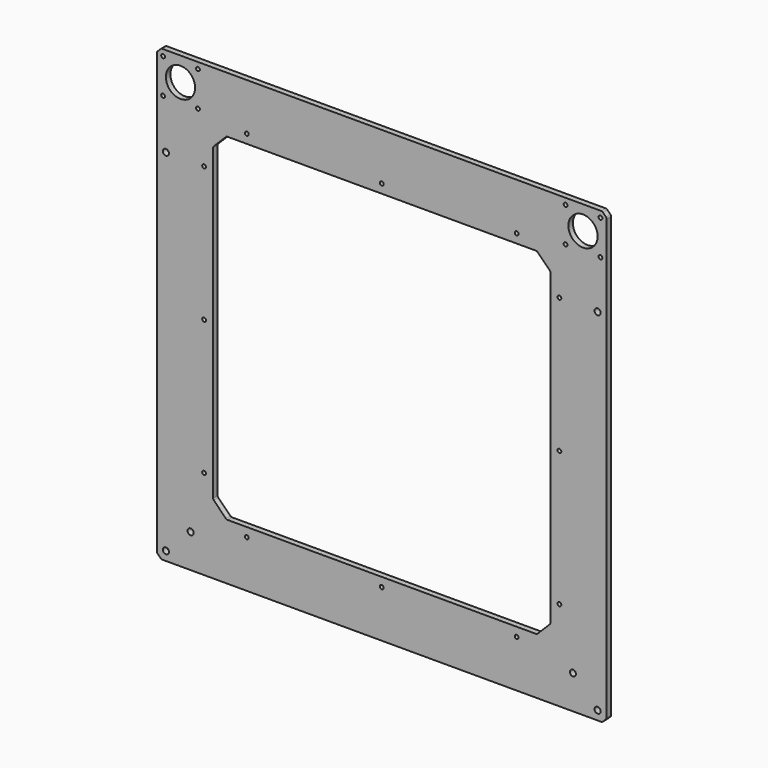
from build123d import *

# Parameters (mm, degrees)
SKETCH001_W        = 400
SKETCH001_H        = 400
PAD_DEPTH          = 5
CHAMFER_SIZE       = 4
FILLET_R           = 2
SKETCH002_W        = 300
SKETCH002_H        = 300
POCKET_DEPTH       = 5.001
CHAMFER001_SIZE    = 12
FILLET001_R        = 2
SKETCH003_R        = 13
SKETCH003_R_2      = 1.7
POCKET001_DEPTH    = 1136.416043
SKETCH008_R        = 2.7
POCKET003_DEPTH    = 5.001
SKETCH009_R        = 1.7
POCKET004_DEPTH    = 1136.416043
POLARPATTERN_COUNT = 4


with BuildPart() as part:
    # Sketch001 → Pad (new body)
    with BuildSketch(Plane.XZ):
        Rectangle(SKETCH001_W, SKETCH001_H)
    extrude(amount=-PAD_DEPTH)

    # Chamfer
    chamfer_edges = [part.edges().sort_by_distance(p)[0] for p in [
        (-200, 2.5, 200),
        (200, 2.5, 200),
        (200, 2.5, -200),
        (-200, 2.5, -200),
    ]]
    chamfer(chamfer_edges, length=CHAMFER_SIZE)

    # Fillet
    fillet_edges = [part.edges().sort_by_distance(p)[0] for p in [
        (196, 2.5, 200),
        (200, 2.5, 196),
        (200, 2.5, -196),
        (196, 2.5, -200),
        (-200, 2.5, -196),
        (-196, 2.5, -200),
        (-200, 2.5, 196),
        (-196, 2.5, 200),
    ]]
    fillet(fillet_edges, radius=FILLET_R)

    # Sketch002 → Pocket (cut, through all)
    with BuildSketch(Plane.XZ):
        Rectangle(SKETCH002_W, SKETCH002_H)
    extrude(amount=-POCKET_DEPTH, mode=Mode.SUBTRACT)

    # Chamfer001
    chamfer001_edges = [part.edges().sort_by_distance(p)[0] for p in [
        (-150, 2.5, -150),
        (150, 2.5, -150),
        (150, 2.5, 150),
        (-150, 2.5, 150),
    ]]
    chamfer(chamfer001_edges, length=CHAMFER001_SIZE)

    # Fillet001
    fillet001_edges = [part.edges().sort_by_distance(p)[0] for p in [
        (-138, 2.5, 150),
        (-150, 2.5, 138),
        (-150, 2.5, -138),
        (-138, 2.5, -150),
        (150, 2.5, 138),
        (138, 2.5, 150),
        (150, 2.5, -138),
        (138, 2.5, -150),
    ]]
    fillet(fillet001_edges, radius=FILLET001_R)

    # Sketch003 → Pocket001 (cut, through all)
    with BuildSketch(Plane.XZ):
        with Locations((-179, 179)):
            Circle(SKETCH003_R)
        with Locations((-163.5, 194.5)):
            Circle(SKETCH003_R_2)
        with Locations((-194.5, 194.5)):
            Circle(SKETCH003_R_2)
        with Locations((-194.5, 163.5)):
            Circle(SKETCH003_R_2)
        with Locations((-163.5, 163.5)):
            Circle(SKETCH003_R_2)
    pocket001 = extrude(amount=-POCKET001_DEPTH, mode=Mode.SUBTRACT)

    # Mirrored: Pocket001 across Sketch003 V_Axis
    add(pocket001.mirror(Plane(origin=(0, 0, 0), x_dir=(0, -1, 0), z_dir=(1, 0, 0))), mode=Mode.SUBTRACT)

    # Sketch008 → Pocket003 (cut, through all)
    with BuildSketch(Plane.XZ):
        with Locations((-192, 120)):
            Circle(SKETCH008_R)
        with Locations((-192, -192)):
            Circle(SKETCH008_R)
        with Locations((192, -192)):
            Circle(SKETCH008_R)
        with Locations((192, 120)):
            Circle(SKETCH008_R)
        with Locations((170, -170)):
            Circle(SKETCH008_R)
        with Locations((-170, -170)):
            Circle(SKETCH008_R)
    extrude(amount=-POCKET003_DEPTH, mode=Mode.SUBTRACT)

    # Sketch009 → Pocket004 (cut, through all)
    with BuildSketch(Plane.XZ):
        with Locations((-120, 158)):
            Circle(SKETCH009_R)
        with Locations((0, 158)):
            Circle(SKETCH009_R)
        with Locations((120, 158)):
            Circle(SKETCH009_R)
    pocket004 = extrude(amount=-POCKET004_DEPTH, mode=Mode.SUBTRACT)

    # PolarPattern: Pocket004 ×4 about axis
    polarpattern_axis = Axis((0, 0, 0), (0, -1, 0))
    for i in range(1, POLARPATTERN_COUNT):
        add(pocket004.rotate(polarpattern_axis, i * 360 / POLARPATTERN_COUNT), mode=Mode.SUBTRACT)


solid = part.part
